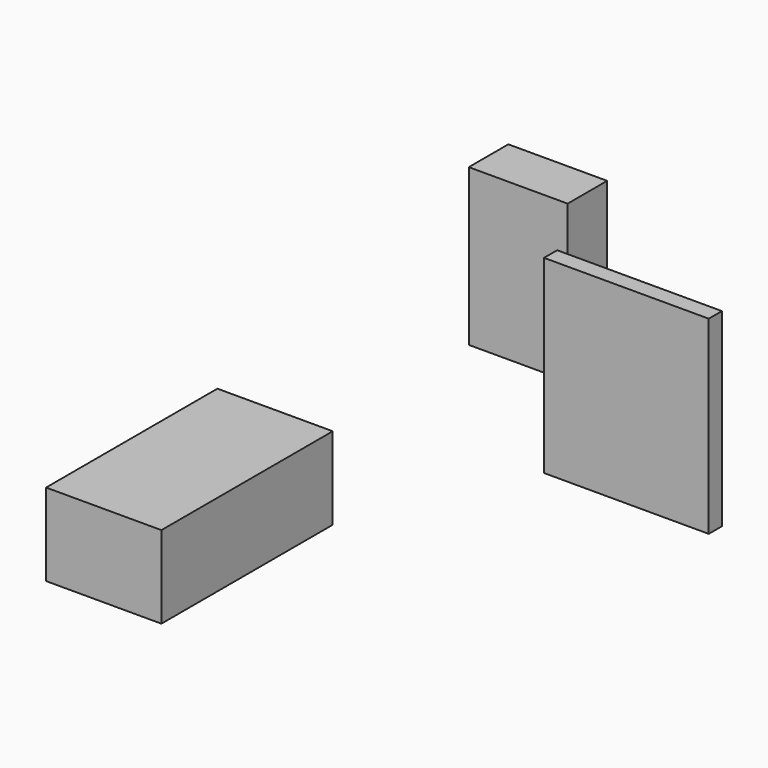
from build123d import *

# Parameters (mm, degrees)
F0_W     = 152.4
F0_H     = 76.2
F1_DEPTH = 241.3
F3_W     = 254
F3_H     = 25.4
F4_DEPTH = 292.1
F6_W     = 177.8
F6_H     = 330.2
F7_DEPTH = 127


with BuildPart() as f1:
    # F0 (on Top) → F1 (new body)
    with BuildSketch(Plane.XY):
        Rectangle(F0_W, F0_H)
    extrude(amount=F1_DEPTH)


with BuildPart() as f1_1:
    # F2: moved
    add(f1.part.moved(Location((0, 220.98, 0))))


with BuildPart() as f4:
    # F3 (on Top) → F4 (new body)
    with BuildSketch(Plane.XY):
        with Locations((0, -8.722258)):
            Rectangle(F3_W, F3_H)
    extrude(amount=F4_DEPTH)


with BuildPart() as f4_1:
    # F5: moved
    add(f4.part.moved(Location((330.2, 0, 0))))


with BuildPart() as f7:
    # F6 (on Top) → F7 (new body)
    with BuildSketch(Plane.XY):
        Rectangle(F6_W, F6_H)
    extrude(amount=F7_DEPTH)


with BuildPart() as f7_1:
    # F8: moved
    add(f7.part.moved(Location((0, -450.85, 0))))


solid = Compound([f1_1.part, f4_1.part, f7_1.part])
